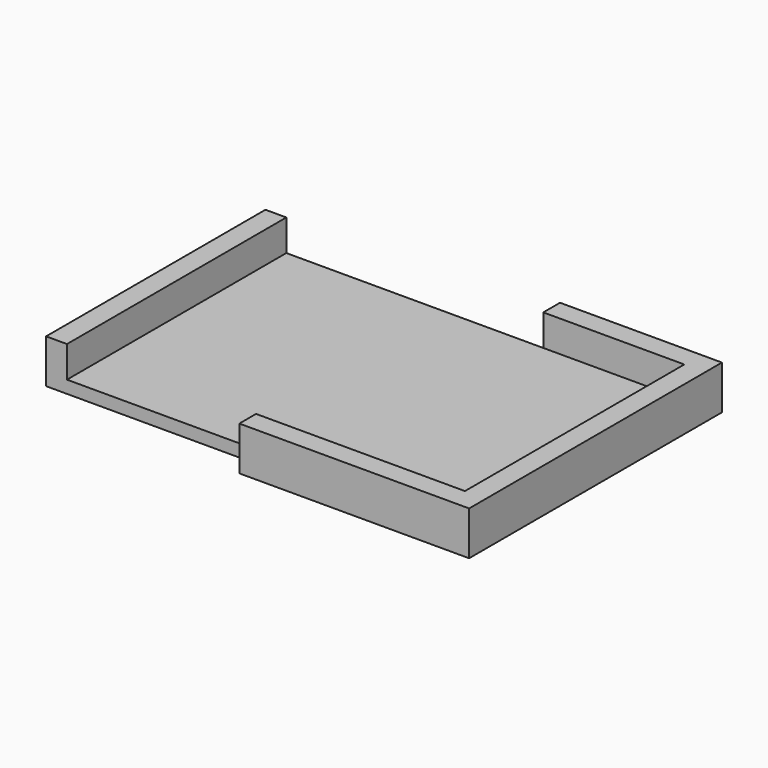
from build123d import *

# Parameters (mm, degrees)
F0_W     = 2
F0_H     = 26.25
F1_DEPTH = 4.2
F2_DEPTH = 1.2


with BuildPart() as f1:
    # F0 (on Top) → F1 (new body)
    with BuildSketch(Plane.XY):
        Polygon((21.05, -15.125), (21.05, 15.125), (5.55, 15.125), (5.55, 13.125), (19.05, 13.125), (19.05, -13.125), (-0.95, -13.125), (-0.95, -15.125), align=None)
        with Locations((-20.05, 0)):
            Rectangle(F0_W, F0_H)
    extrude(amount=F1_DEPTH)

    # F0 (on Top) → F2 (join)
    with BuildSketch(Plane.XY):
        Polygon((19.05, 13.125), (5.55, 13.125), (0.55, 13.125), (-19.05, 13.125), (-19.05, -13.125), (-0.95, -13.125), (19.05, -13.125), align=None)
    extrude(amount=F2_DEPTH)


solid = f1.part
